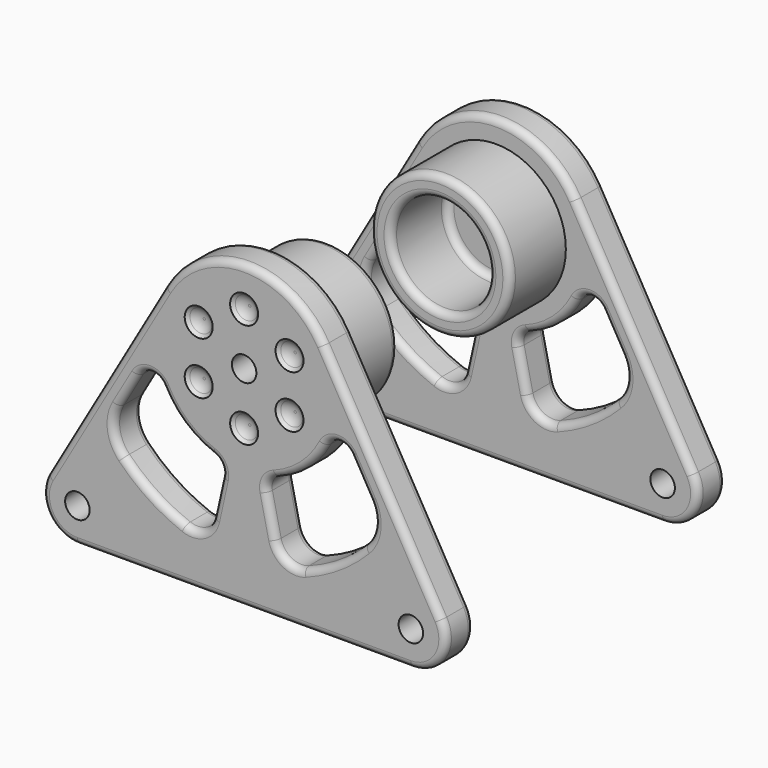
from build123d import *

# Parameters (mm, degrees)
F2_DEPTH  = 5
F3_R      = 10
F3_R_2    = 7
F4_DEPTH  = 10
F6_DEPTH  = 5.001
F7_R      = 5
F8_R      = 1.75
F9_DEPTH  = 5.001
F11_DEPTH = 5.001
F12_R     = 2
F13_R     = 5
F14_R     = 3
F15_R     = 1
F16_R     = 1
F17_R     = 2
F18_DEPTH = 1
F18_TAPER = 45
F19_R     = 2


with BuildPart() as f2:
    # F1 (on Front) → F2 (new body)
    with BuildSketch(Plane.XZ):
        Polygon((32.5, -18.7638837487), (0, 37.5277674973), (-32.5, -18.7638837487), align=None)
    extrude(amount=F2_DEPTH)

    # F3 (on face) → F4 (join)
    with BuildSketch(Plane.XZ):
        with Locations((0, 11.2361162513)):
            Circle(F3_R)
        with Locations((0, 11.2361162513)):
            Circle(F3_R_2, mode=Mode.SUBTRACT)
    extrude(amount=-F4_DEPTH)

    # F5 (on face) → F6 (cut, through all)
    with BuildSketch(Plane.XZ):
        with BuildLine():
            ThreePointArc((-11.3846189432, 17.8090290628), (0, 24.3819418743), (11.3846189432, 17.8090290628))
            Line((11.3846189432, 17.8090290628), (0, 37.5277674973))
            Line((0, 37.5277674973), (-11.3846189432, 17.8090290628))
        make_face()
    extrude(amount=F6_DEPTH, mode=Mode.SUBTRACT)

    # F7
    f7_edges = [f2.edges().sort_by_distance(p)[0] for p in [
        (32.5, -2.5, -18.763884),
        (-32.5, -2.5, -18.763884),
    ]]
    fillet(f7_edges, radius=F7_R)

    # F8 (on face) → F9 (cut, through all)
    with BuildSketch(Plane.XZ):
        with Locations((23.8397459622, -13.7638837487)):
            Circle(F8_R)
        with Locations((-23.8397459622, -13.7638837487)):
            Circle(F8_R)
        with Locations((0, 11.2361162513)):
            Circle(F8_R)
    extrude(amount=F9_DEPTH, mode=Mode.SUBTRACT)

    # F10 (on face) → F11 (cut, through all)
    with BuildSketch(Plane.XZ):
        with BuildLine():
            Line((-12.9661047226, 9.0698153415), (-19.6615395414, -2.5270179434))
            ThreePointArc((-19.6615395414, -2.5270179434), (-13.335055936, -8.7182387416), (-5.1945507345, -12.1949879195))
            Line((-5.1945507345, -12.1949879195), (-2.8452774227, -1.5981008147))
            ThreePointArc((-2.8452774227, -1.5981008147), (-9.5368265222, 2.1883722676), (-12.9661047226, 9.0698153415))
        make_face()
        with BuildLine():
            Line((19.6615395414, -2.5270179434), (12.9661047226, 9.0698153415))
            ThreePointArc((12.9661047226, 9.0698153415), (9.5368265222, 2.1883722676), (2.8452774227, -1.5981008147))
            Line((2.8452774227, -1.5981008147), (5.1945507345, -12.1949879195))
            ThreePointArc((5.1945507345, -12.1949879195), (13.335055936, -8.7182387416), (19.6615395414, -2.5270179434))
        make_face()
    extrude(amount=F11_DEPTH, mode=Mode.SUBTRACT)

    # F12
    f12_edges = [f2.edges().sort_by_distance(p)[0] for p in [
        (12.966105, -2.5, 9.069815),
        (-12.966105, -2.5, 9.069815),
        (-2.845277, -2.5, -1.598101),
        (2.845277, -2.5, -1.598101),
    ]]
    fillet(f12_edges, radius=F12_R)

    # F13
    f13_edges = [f2.edges().sort_by_distance(p)[0] for p in [
        (19.66154, -2.5, -2.527018),
        (-19.66154, -2.5, -2.527018),
    ]]
    fillet(f13_edges, radius=F13_R)

    # F14
    f14_edges = [f2.edges().sort_by_distance(p)[0] for p in [
        (5.194551, -2.5, -12.194988),
        (-5.194551, -2.5, -12.194988),
    ]]
    fillet(f14_edges, radius=F14_R)

    # F15
    f15_edges = [f2.edges().sort_by_distance(p)[0] for p in [
        (-19.777246, -5, 3.272573),
        (-13.394624, -5, 6.250458),
        (13.394624, -5, 6.250458),
        (19.777246, 0, 3.272573),
        (8.678322, 0, 1.361935),
        (-8.678322, 0, 1.361935),
    ]]
    fillet(f15_edges, radius=F15_R)

    # F16
    f16_edges = [f2.edges().sort_by_distance(p)[0] for p in [
        (-7, 0, 11.236116),
        (-10, 10, 11.236116),
        (-7, 10, 11.236116),
    ]]
    fillet(f16_edges, radius=F16_R)

    # F17 (on face) → F18 (cut)
    with BuildSketch(Plane.XZ.offset(5)):
        with Locations((0, 18.7361162513)):
            Circle(F17_R)
        with Locations((-6.4951905284, 14.9861162513)):
            Circle(F17_R)
        with Locations((-6.4951905284, 7.4861162513)):
            Circle(F17_R)
        with Locations((0, 3.7361162513)):
            Circle(F17_R)
        with Locations((6.4951905284, 7.4861162513)):
            Circle(F17_R)
        with Locations((6.4951905284, 14.9861162513)):
            Circle(F17_R)
    extrude(amount=-F18_DEPTH, taper=F18_TAPER, mode=Mode.SUBTRACT)

    # F19
    f19_edges = [f2.edges().sort_by_distance(p)[0] for p in [
        (-7.495191, -4, 14.986116),
        (-7.495191, -4, 7.486116),
        (-1, -4, 3.736116),
        (5.495191, -4, 7.486116),
        (5.495191, -4, 14.986116),
        (-1, -4, 18.736116),
    ]]
    fillet(f19_edges, radius=F19_R)


with BuildPart() as f20_1:
    # F20: instance of F2
    add(f2.part.mirror(Plane.XZ.offset(-20)))


solid = Compound([f2.part, f20_1.part])
